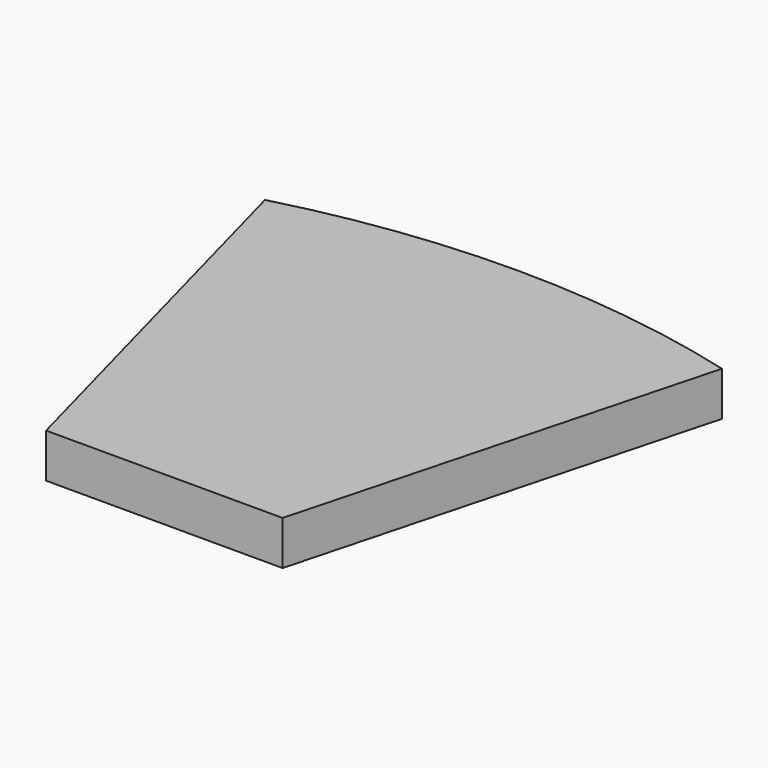
from build123d import *

# Parameters (mm, degrees)
EXTRUDE_DEPTH = 1.5


with BuildPart() as part:
    # Sketch → Extrude (new body, symmetric)
    with BuildSketch(Plane.XY):
        with BuildLine():
            ThreePointArc((15.529143, 57.95555), (0, 60), (-15.529143, 57.95555))
            Line((-15.529143, 57.95555), (-8.038476, 30))
            Line((8.038476, 30), (-8.038476, 30))
            Line((15.529143, 57.95555), (8.038476, 30))
        make_face()
    extrude(amount=EXTRUDE_DEPTH, both=True)


solid = part.part
